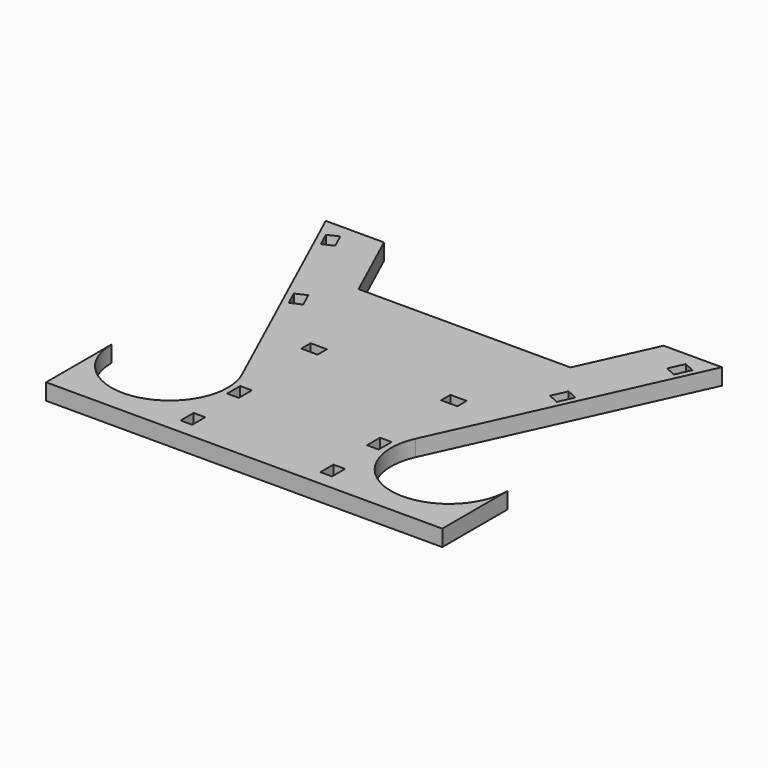
from build123d import *

# Parameters (mm, degrees)
F1_DEPTH = 7
F2_W     = 5
F2_H     = 7
F2_W_2   = 7
F2_H_2   = 5
F3_DEPTH = 7.001
F5_DEPTH = 7.001


with BuildPart() as f1:
    # F0 (on Top) → F1 (new body)
    with BuildSketch(Plane.XY):
        with BuildLine():
            Line((-85, -75), (85, -75))
            Line((85, -75), (85, -40))
            ThreePointArc((85, -40), (54.689259, -64.429409), (37.256318, -29.620939))
            Line((37.256318, -29.620939), (85, 75))
            Line((85, 75), (60, 75))
            Line((60, 75), (45.469314, 43.158845))
            Line((45.469314, 43.158845), (-45.469314, 43.158845))
            Line((-45.469314, 43.158845), (-60, 75))
            Line((-60, 75), (-85, 75))
            Line((-85, 75), (-37.256318, -29.620939))
            ThreePointArc((-37.256318, -29.620939), (-35.570591, -34.689259), (-35, -40))
            ThreePointArc((-35, -40), (-60, -65), (-85, -40))
            Line((-85, -40), (-85, -75))
        make_face()
    extrude(amount=F1_DEPTH)

    # F2 (on face) → F3 (cut, through all)
    with BuildSketch(Plane.XY.offset(7)):
        with Locations((-30, -65)):
            Rectangle(F2_W, F2_H)
        with Locations((30, -65)):
            Rectangle(F2_W, F2_H)
        with Locations((-30, -40)):
            Rectangle(F2_W, F2_H)
        with Locations((30, -40)):
            Rectangle(F2_W, F2_H)
        with Locations((-30, 0)):
            Rectangle(F2_W_2, F2_H_2)
        with Locations((30, 0)):
            Rectangle(F2_W_2, F2_H_2)
    extrude(amount=-F3_DEPTH, mode=Mode.SUBTRACT)

    # F4 (on face) → F5 (cut, through all)
    with BuildSketch(Plane.XY.offset(7)):
        Polygon((71.213039, 62.853791), (75.761776, 60.777978), (78.667913, 67.146209), (74.119177, 69.222022), align=None)
        Polygon((52.959071, 22.853791), (57.507808, 20.777978), (60.413945, 27.146209), (55.865208, 29.222022), align=None)
        Polygon((-57.507808, 20.777978), (-52.959071, 22.853791), (-55.865208, 29.222022), (-60.413945, 27.146209), align=None)
        Polygon((-75.761776, 60.777978), (-71.213039, 62.853791), (-74.119177, 69.222022), (-78.667913, 67.146209), align=None)
    extrude(amount=-F5_DEPTH, mode=Mode.SUBTRACT)


solid = f1.part
